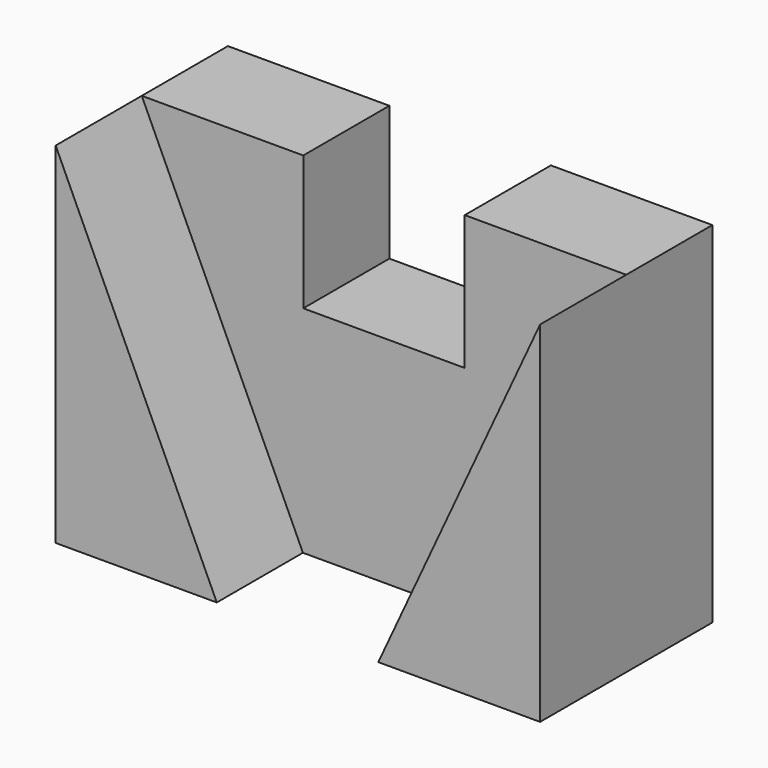
from build123d import *

# Parameters (mm, degrees)
F0_W     = 90
F0_H     = 65
F1_DEPTH = 20
F2_W     = 30
F2_H     = 25
F3_DEPTH = 20.001
F5_DEPTH = 20


with BuildPart() as f1:
    # F0 (on Front) → F1 (new body)
    with BuildSketch(Plane.XZ):
        Rectangle(F0_W, F0_H)
    extrude(amount=F1_DEPTH)

    # F2 (on face) → F3 (cut, through all)
    with BuildSketch(Plane.XZ.offset(20)):
        with Locations((0, 20)):
            Rectangle(F2_W, F2_H)
    extrude(amount=-F3_DEPTH, mode=Mode.SUBTRACT)

    # F4 (on face) → F5 (join)
    with BuildSketch(Plane.XZ.offset(20)):
        Polygon((-15.060484, -32.5), (-45, 32.5), (-45, -32.5), align=None)
        Polygon((45, 32.5), (14.939516, -32.5), (45, -32.5), align=None)
    extrude(amount=F5_DEPTH)


solid = f1.part
